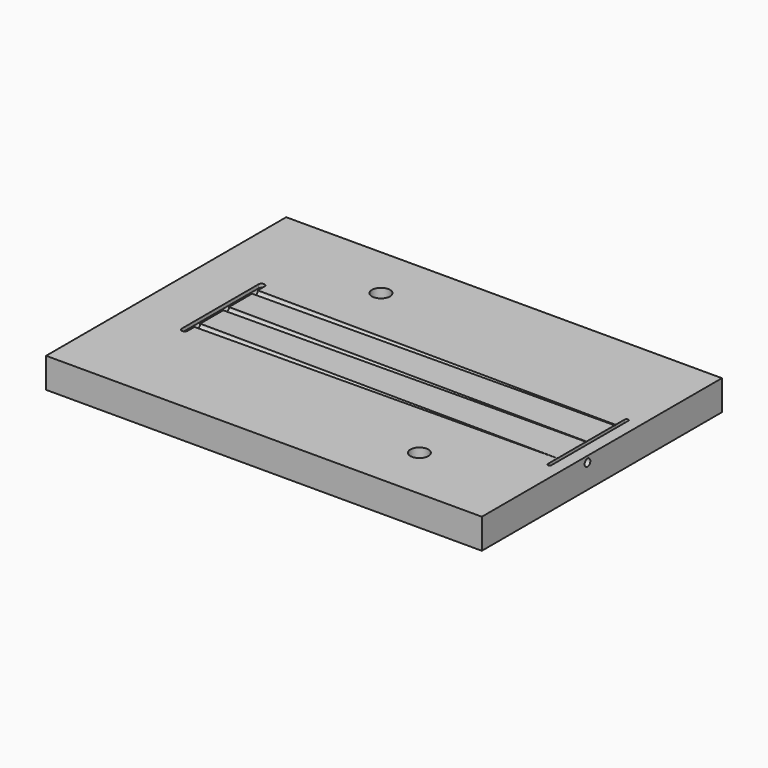
from build123d import *

# Parameters (mm, degrees)
F0_W      = 350
F0_H      = 250
F1_DEPTH  = 25
F4_R      = 7.5
F4_R_2    = 5
F5_DEPTH  = 25.001
F10_W     = 5
F10_H     = 80
F11_DEPTH = 3
F12_W     = 13
F12_H     = 250
F13_DEPTH = 25
F14_W     = 3
F14_H     = 80
F15_DEPTH = 10
F16_R     = 3
F17_DEPTH = 10


with BuildPart() as f1:
    # F0 (on Top) → F1 (new body)
    with BuildSketch(Plane.XY):
        Rectangle(F0_W, F0_H)
    extrude(amount=F1_DEPTH)

    # F2 (on face) → F3 (revolve, cut)
    with BuildSketch(Plane.XY.offset(25)):
        Polygon((175, 0), (175, 0.25), (-125, 3), (-125, 0), align=None)
    revolve(axis=Axis((25, 0, 25), (1, 0, 0)), mode=Mode.SUBTRACT)

    # F4 (on face) → F5 (cut, through all)
    with BuildSketch(Plane.XY.offset(25)):
        with Locations((-60, 80)):
            Circle(F4_R)
        with Locations((-60, 80)):
            Circle(F4_R_2, mode=Mode.SUBTRACT)
        with Locations((-60, 80)):
            Circle(F4_R_2)
        with Locations((100, -80)):
            Circle(F4_R)
        with Locations((100, -80)):
            Circle(F4_R_2, mode=Mode.SUBTRACT)
        with Locations((100, -80)):
            Circle(F4_R_2)
    extrude(amount=-F5_DEPTH, mode=Mode.SUBTRACT)

    # F6 (on face) → F7 (revolve, cut)
    with BuildSketch(Plane.XY.offset(25)):
        Polygon((-125, 33), (-125, 30), (175, 30), (175, 30.5), align=None)
    revolve(axis=Axis((25, 30, 25), (1, 0, 0)), mode=Mode.SUBTRACT)

    # F8 (on face) → F9 (revolve, cut)
    with BuildSketch(Plane.XY.offset(25)):
        Polygon((175, -30), (-125, -30), (-125, -33), (175, -30.05), align=None)
    revolve(axis=Axis((25, -30, 25), (-1, 0, 0)), mode=Mode.SUBTRACT)

    # F10 (on face) → F11 (cut)
    with BuildSketch(Plane.XY.offset(25)):
        with Locations((-127.5, 0)):
            Rectangle(F10_W, F10_H)
        with BuildLine():
            Line((-130, 40), (-125, 40))
            ThreePointArc((-125, 40), (-127.5, 42.5), (-130, 40))
        make_face()
        with BuildLine():
            ThreePointArc((-130, -40), (-127.5, -42.5), (-125, -40))
            Line((-125, -40), (-130, -40))
        make_face()
    extrude(amount=-F11_DEPTH, mode=Mode.SUBTRACT)

    # F12 (on Top) → F13 (join)
    with BuildSketch(Plane.XY):
        with Locations((181.5, 0)):
            Rectangle(F12_W, F12_H)
    extrude(amount=F13_DEPTH)

    # F14 (on face) → F15 (cut)
    with BuildSketch(Plane.XY.offset(25)):
        with BuildLine():
            ThreePointArc((178, 40), (176.5, 41.5), (175, 40))
            Line((175, 40), (178, 40))
        make_face()
        with Locations((176.5, 0)):
            Rectangle(F14_W, F14_H)
        with BuildLine():
            Line((178, -40), (175, -40))
            ThreePointArc((175, -40), (176.5, -41.5), (178, -40))
        make_face()
    extrude(amount=-F15_DEPTH, mode=Mode.SUBTRACT)

    # F16 (on face) → F17 (cut, through all)
    with BuildSketch(Plane.YZ.offset(188)):
        with Locations((-15, 20)):
            Circle(F16_R)
    extrude(amount=-F17_DEPTH, mode=Mode.SUBTRACT)


solid = f1.part
